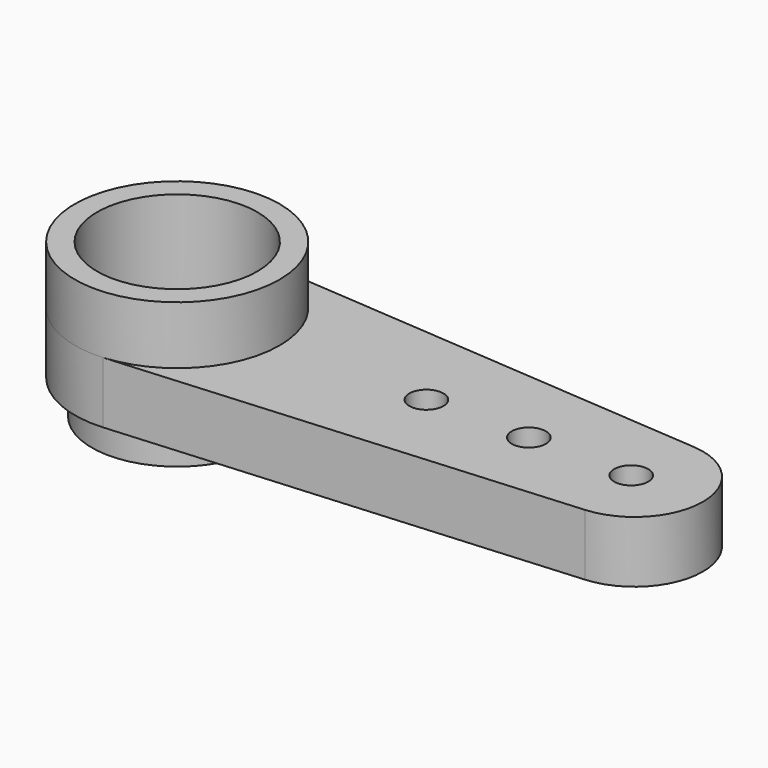
from build123d import *

# Parameters (mm, degrees)
PAD_DEPTH       = 1.8
SKETCH001_R     = 3
PAD001_DEPTH    = 1.7
SKETCH002_R     = 2.5
PAD002_DEPTH    = 1
SKETCH003_R     = 2
POCKET_DEPTH    = 1.4
SKETCH004_R     = 2.35
POCKET001_DEPTH = 2.5
SKETCH005_R     = 1.35
POCKET002_DEPTH = 4.501
SKETCH006_R     = 0.5
POCKET003_DEPTH = 2.801


with BuildPart() as part:
    # Sketch → Pad (new body)
    with BuildSketch(Plane.XY):
        with BuildLine():
            ThreePointArc((0.2238838654, 2.9916343384), (-3, -2.741e-07), (0.223884412, -2.9916342975))
            Line((13.5492701682, -1.9944218252), (0.223884412, -2.9916342975))
            ThreePointArc((13.5492701681, -1.9944218252), (15.4, 0), (13.5492701681, 1.9944218252))
            Line((13.5492701682, 1.9944218252), (0.2238838654, 2.9916343384))
        make_face()
    extrude(amount=PAD_DEPTH)

    # Sketch001 → Pad001 (new body)
    with BuildSketch(Plane.XY.offset(1.8)):
        Circle(SKETCH001_R)
    extrude(amount=PAD001_DEPTH)

    # Sketch002 → Pad002 (new body)
    with BuildSketch(Plane(origin=(0, 0, 0), x_dir=(1, 0, 0), z_dir=(0, 0, -1))):
        Circle(SKETCH002_R)
    extrude(amount=PAD002_DEPTH)

    # Sketch003 → Pocket (cut)
    with BuildSketch(Plane(origin=(0, 0, -1), x_dir=(1, 0, 0), z_dir=(0, 0, -1))):
        Circle(SKETCH003_R)
    extrude(amount=-POCKET_DEPTH, mode=Mode.SUBTRACT)

    # Sketch004 → Pocket001 (cut)
    with BuildSketch(Plane.XY.offset(3.5)):
        Circle(SKETCH004_R)
    extrude(amount=-POCKET001_DEPTH, mode=Mode.SUBTRACT)

    # Sketch005 → Pocket002 (cut, through all)
    with BuildSketch(Plane.XY.offset(3.5)):
        Circle(SKETCH005_R)
    extrude(amount=-POCKET002_DEPTH, mode=Mode.SUBTRACT)

    # Sketch006 → Pocket003 (cut, through all)
    with BuildSketch(Plane.XY.offset(1.8)):
        with Locations((7.3, 0)):
            Circle(SKETCH006_R)
        with Locations((10.3, 0)):
            Circle(SKETCH006_R)
        with Locations((13.3, 0)):
            Circle(SKETCH006_R)
    extrude(amount=-POCKET003_DEPTH, mode=Mode.SUBTRACT)


solid = part.part
